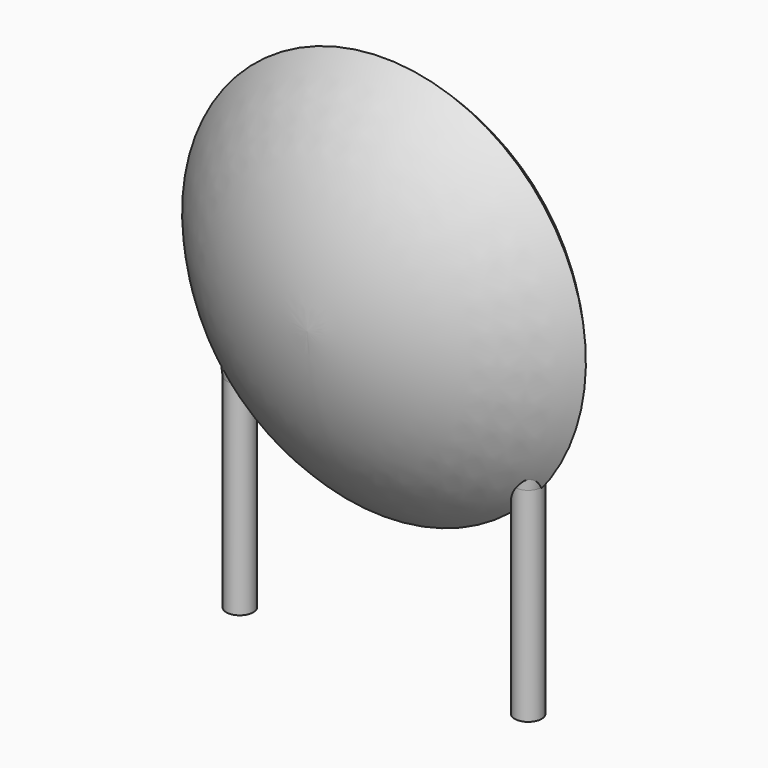
from build123d import *

# Parameters (mm, degrees)
SKETCH001_R       = 0.35
PAD001_DEPTH      = 2.1
PAD001_DEPTH_BACK = 3.2
SKETCH002_R       = 0.35
SKETCH003_R       = 0.35
SKETCH004_R       = 0.35
SKETCH005_R       = 0.35


with BuildPart() as pad001:
    # Sketch001 → Pad001 (new body, two sides)
    with BuildSketch(Plane.XY) as pad001_sk:
        Circle(SKETCH001_R)
        with Locations((7.5, 0)):
            Circle(SKETCH001_R)
    extrude(amount=PAD001_DEPTH)
    extrude(pad001_sk.sketch, amount=-PAD001_DEPTH_BACK)


with BuildPart() as revolution:
    # Sketch → Revolution (revolve)
    with BuildSketch(Plane.YZ.offset(3.75)):
        with BuildLine():
            Line((-2.5, 5.35), (2.5, 5.35))
            ThreePointArc((0, 0.1), (1.803019, 2.461658), (2.5, 5.35))
            ThreePointArc((-2.5, 5.35), (-1.803019, 2.461658), (0, 0.1))
        make_face()
    revolve(axis=Axis((3.75, -3.32079, 5.35), (0, 1, 0)))


with BuildPart() as loft_body:
    # Sketch002 → Loft section 0
    with BuildSketch(Plane.XY.offset(5.25)):
        with Locations((-0.45, 0)):
            Circle(SKETCH002_R)
    # Sketch003 → Loft section 1
    with BuildSketch(Plane.XY.offset(2.1)):
        Circle(SKETCH003_R)
    loft()


with BuildPart() as loft001:
    # Sketch004 → Loft001 section 0
    with BuildSketch(Plane.XY.offset(2.1)):
        with Locations((7.5, 0)):
            Circle(SKETCH004_R)
    # Sketch005 → Loft001 section 1
    with BuildSketch(Plane.XY.offset(5.25)):
        with Locations((7.95, 0)):
            Circle(SKETCH005_R)
    loft()


solid = Compound([pad001.part, revolution.part, loft_body.part, loft001.part])
